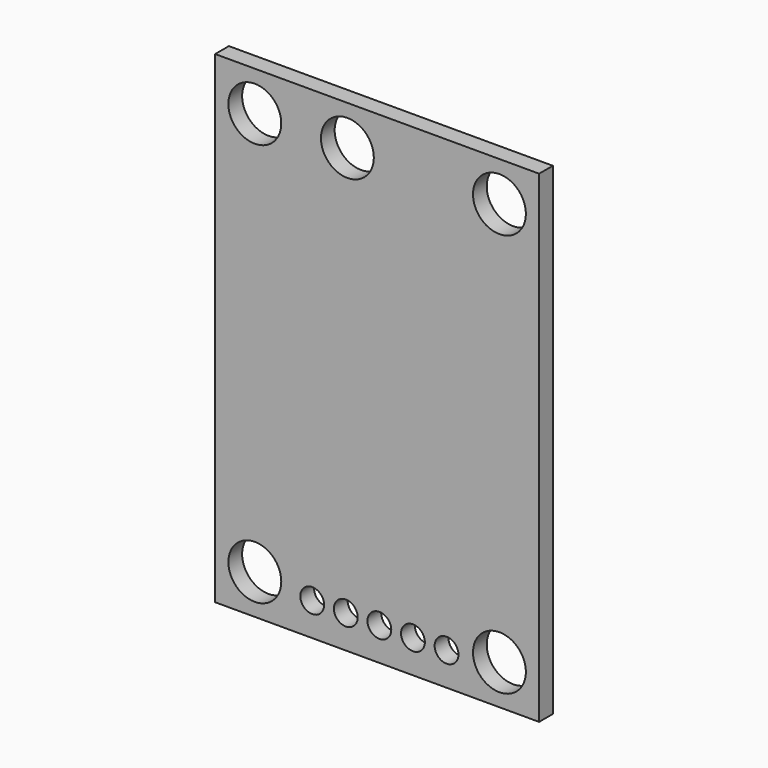
from build123d import *

# Parameters (mm, degrees)
CYLINDER_R        = 2
CYLINDER_DEPTH    = 10
CYLINDER168_R     = 2
CYLINDER168_DEPTH = 10
CYLINDER169_R     = 2
CYLINDER169_DEPTH = 10
CYLINDER170_R     = 2
CYLINDER170_DEPTH = 10
CYLINDER171_R     = 2
CYLINDER171_DEPTH = 10
CYLINDER166_R     = 0.9
CYLINDER166_DEPTH = 1.3
CYLINDER165_R     = 0.9
CYLINDER165_DEPTH = 1.3
CYLINDER167_R     = 0.9
CYLINDER167_DEPTH = 1.3
CYLINDER164_R     = 0.9
CYLINDER164_DEPTH = 1.3
CYLINDER163_R     = 0.9
CYLINDER163_DEPTH = 1.3
BOX_W             = 24.5
BOX_H             = 1.3
BOX_DEPTH         = 36.5


with BuildPart() as cylinder:
    # Cylinder → Cylinder (new body)
    with BuildSketch(Plane(origin=(-3, 2, 14), x_dir=(1, 0, 0), z_dir=(0, -1, 0))):
        Circle(CYLINDER_R)
    extrude(amount=CYLINDER_DEPTH)


with BuildPart() as cylinder168:
    # Cylinder168 → Cylinder168 (new body)
    with BuildSketch(Plane(origin=(-14.5, 2, 14), x_dir=(1, 0, 0), z_dir=(0, -1, 0))):
        Circle(CYLINDER168_R)
    extrude(amount=CYLINDER168_DEPTH)


with BuildPart() as cylinder169:
    # Cylinder169 → Cylinder169 (new body)
    with BuildSketch(Plane(origin=(-21.5, 2, 14), x_dir=(1, 0, 0), z_dir=(0, -1, 0))):
        Circle(CYLINDER169_R)
    extrude(amount=CYLINDER169_DEPTH)


with BuildPart() as cylinder170:
    # Cylinder170 → Cylinder170 (new body)
    with BuildSketch(Plane(origin=(-3, 2, -16.5), x_dir=(1, 0, 0), z_dir=(0, -1, 0))):
        Circle(CYLINDER170_R)
    extrude(amount=CYLINDER170_DEPTH)


with BuildPart() as cylinder171:
    # Cylinder171 → Cylinder171 (new body)
    with BuildSketch(Plane(origin=(-21.5, 2, -16.5), x_dir=(1, 0, 0), z_dir=(0, -1, 0))):
        Circle(CYLINDER171_R)
    extrude(amount=CYLINDER171_DEPTH)


with BuildPart() as cylinder166:
    # Cylinder166 → Cylinder166 (new body)
    with BuildSketch(Plane(origin=(-14.62, 1.3, -17), x_dir=(1, 0, 0), z_dir=(0, -1, 0))):
        Circle(CYLINDER166_R)
    extrude(amount=CYLINDER166_DEPTH)


with BuildPart() as cylinder165:
    # Cylinder165 → Cylinder165 (new body)
    with BuildSketch(Plane(origin=(-12.08, 1.3, -17), x_dir=(1, 0, 0), z_dir=(0, -1, 0))):
        Circle(CYLINDER165_R)
    extrude(amount=CYLINDER165_DEPTH)


with BuildPart() as cylinder167:
    # Cylinder167 → Cylinder167 (new body)
    with BuildSketch(Plane(origin=(-17.16, 1.3, -17), x_dir=(1, 0, 0), z_dir=(0, -1, 0))):
        Circle(CYLINDER167_R)
    extrude(amount=CYLINDER167_DEPTH)


with BuildPart() as cylinder164:
    # Cylinder164 → Cylinder164 (new body)
    with BuildSketch(Plane(origin=(-9.54, 1.3, -17), x_dir=(1, 0, 0), z_dir=(0, -1, 0))):
        Circle(CYLINDER164_R)
    extrude(amount=CYLINDER164_DEPTH)


with BuildPart() as pcb_cutouts:
    # Cylinder163 → Cylinder163 (new body)
    with BuildSketch(Plane(origin=(-7, 1.3, -17), x_dir=(1, 0, 0), z_dir=(0, -1, 0))):
        Circle(CYLINDER163_R)
    extrude(amount=CYLINDER163_DEPTH)

    # Fusion: union Cylinder166, Cylinder165, Cylinder167, Cylinder164
    add(cylinder166.part)
    add(cylinder165.part)
    add(cylinder167.part)
    add(cylinder164.part)

    # Fusion001: union Cylinder, Cylinder168, Cylinder169, Cylinder170, Cylinder171
    add(cylinder.part)
    add(cylinder168.part)
    add(cylinder169.part)
    add(cylinder170.part)
    add(cylinder171.part)


with BuildPart() as pcb:
    # Box → Box (new body)
    with BuildSketch(Plane(origin=(-24.5, 0, -19.5), x_dir=(1, 0, 0), z_dir=(0, 0, 1))):
        with Locations((12.25, 0.65)):
            Rectangle(BOX_W, BOX_H)
    extrude(amount=BOX_DEPTH)

    # Cut: cut pcb cutouts
    add(pcb_cutouts.part, mode=Mode.SUBTRACT)


solid = pcb.part
